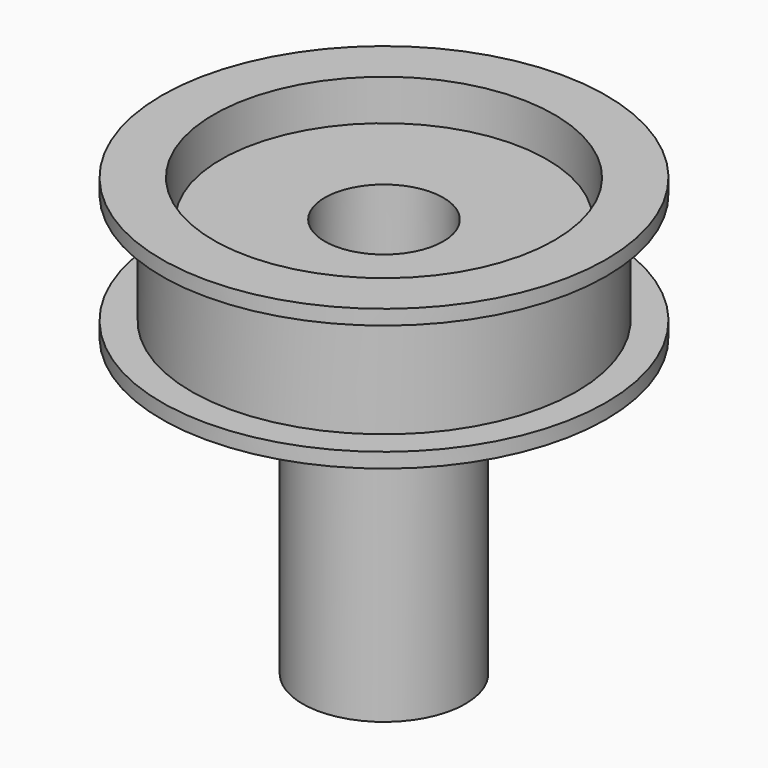
from build123d import *

# Parameters (mm, degrees)
F0_R     = 11
F0_R_2   = 4
F1_DEPTH = 7
F2_R     = 5.5
F2_R_2   = 2.5
F3_DEPTH = 20
F4_R     = 13
F4_R_2   = 11.5
F5_DEPTH = 4.75
F6_R     = 15
F6_R_2   = 13
F7_DEPTH = 1


with BuildPart() as f1:
    # F0 (on Top) → F1 (new body)
    with BuildSketch(Plane.XY):
        Circle(F0_R)
        Circle(F0_R_2, mode=Mode.SUBTRACT)
    extrude(amount=F1_DEPTH)


with BuildPart() as f3:
    # F2 (on Top) → F3 (new body)
    with BuildSketch(Plane.XY):
        Circle(F2_R)
        Circle(F2_R_2, mode=Mode.SUBTRACT)
    extrude(amount=-F3_DEPTH)


with BuildPart() as f5:
    # F4 (on Top) → F5 (new body)
    with BuildSketch(Plane.XY):
        Circle(F4_R)
        Circle(F4_R_2, mode=Mode.SUBTRACT)
    extrude(amount=F5_DEPTH)

    # F6 (on Top) → F7 (join)
    with BuildSketch(Plane.XY):
        Circle(F6_R)
        Circle(F6_R_2, mode=Mode.SUBTRACT)
    extrude(amount=F7_DEPTH)

    # F8: F5 across face


with BuildPart() as f5_1:
    add(f5.part)
    add(f5.part.mirror(Plane.XY.offset(4.75)))


solid = Compound([f1.part, f3.part, f5_1.part])
